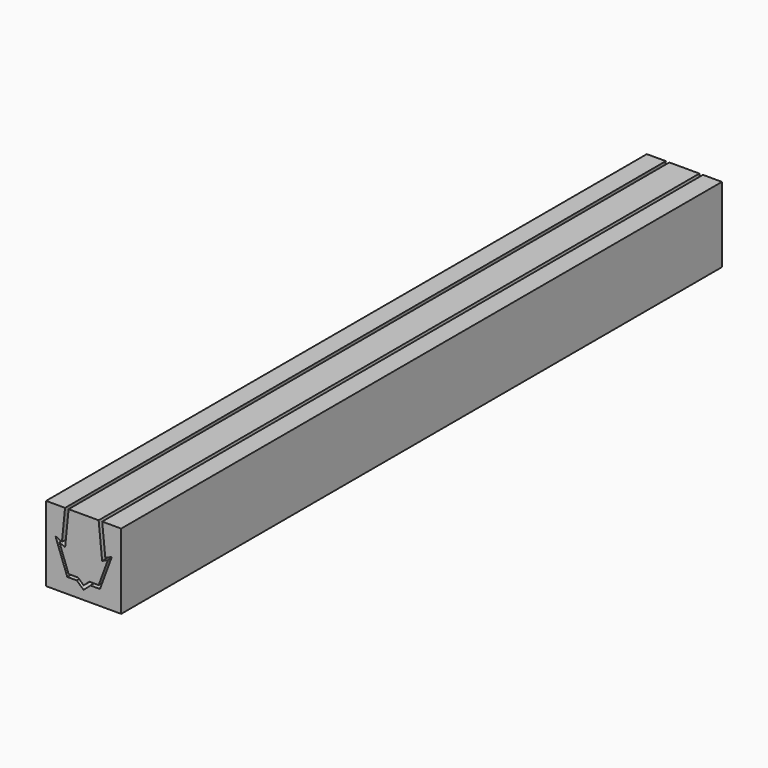
from build123d import *

# Parameters (mm, degrees)
F1_DEPTH = 100
F2_DEPTH = 100


with BuildPart() as f1:
    # F0 (on Front) → F1 (new body)
    with BuildSketch(Plane.XZ):
        Polygon((-5, -5), (5, -5), (5, -1.523607), (5, 5), (3, 5), (2.47285, 5), (2.887205, 0.878801), (3.757917, 1.279605), (2.177033, -3), (0.906944, -3), (0, -3.821989), (-0.906944, -3), (-2.177033, -3), (-3.757917, 1.279605), (-2.887205, 0.878801), (-2.47285, 5), (-3, 5), (-5, 5), align=None)
    extrude(amount=F1_DEPTH)


with BuildPart() as f2:
    # F0 (on Front) → F2 (new body)
    with BuildSketch(Plane.XZ):
        Polygon((0, 5), (-2, 5), (-2.463702, 0.387995), (-3.22613, 0.719253), (-2, -2.6), (-0.752649, -2.6), (0, -3.282147), (0.752649, -2.6), (2, -2.6), (3.22613, 0.719253), (2.463702, 0.387995), (2, 5), align=None)
    extrude(amount=F2_DEPTH)


solid = Compound([f1.part, f2.part])
